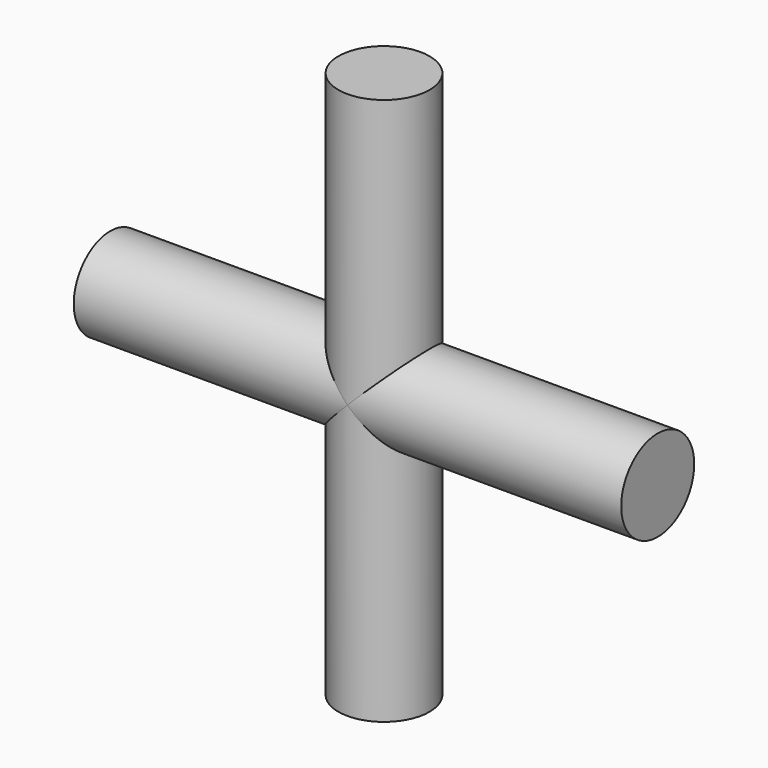
from build123d import *

# Parameters (mm, degrees)
F0_R     = 3.175
F1_DEPTH = 19.05
F2_R     = 3.175
F3_DEPTH = 19.05


with BuildPart() as f1:
    # F0 (on Top) → F1 (new body, symmetric)
    with BuildSketch(Plane.XY):
        Circle(F0_R)
    extrude(amount=F1_DEPTH, both=True)

    # F2 (on Right) → F3 (join, symmetric)
    with BuildSketch(Plane.YZ):
        Circle(F2_R)
    extrude(amount=F3_DEPTH, both=True)


solid = f1.part
